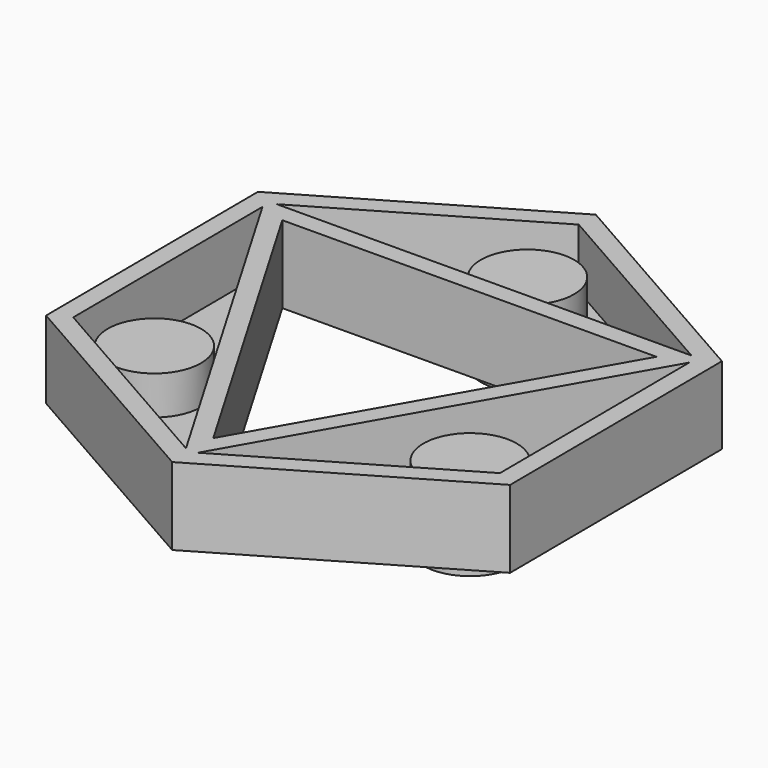
from build123d import *

# Parameters (mm, degrees)
F1_DEPTH = 25
F2_T     = -6
F4_R     = 15.0616711188
F5_DEPTH = 12.5


with BuildPart() as f1:
    # F0 (on Top) → F1 (new body)
    with BuildSketch(Plane.XY):
        Polygon((74.3237713212, 43.4907621871), (-0.5022192234, 86.1116551627), (-74.8259905445, 42.6208929757), (-74.3237713212, -43.4907621871), (0.5022192234, -86.1116551627), (74.8259905445, -42.6208929757), align=None)
        Polygon((0.4048665783, -69.4193482725), (-60.3213524073, 34.3590493943), (59.916485829, 35.0602988782), align=None, mode=Mode.SUBTRACT)
    extrude(amount=F1_DEPTH)

    # F2
    f2_openings = [f1.faces().sort_by_distance(p)[0] for p in [
        (35.781524, 62.818673, 25),
    ]]
    offset(amount=F2_T, openings=f2_openings, kind=Kind.INTERSECTION)

    # F4 (on face) → F5 (join, symmetric)
    with BuildSketch(Plane.XY.offset(6)):
        with Locations((-0.461813338, 58.4901720285)):
            Circle(F4_R)
        with Locations((50.8848815174, -28.8451439318)):
            Circle(F4_R)
        with Locations((-50.4230681795, -29.6450280968)):
            Circle(F4_R)
    extrude(amount=F5_DEPTH, both=True)


with BuildPart() as f1b:
    # F0 (on Top) → F1, piece 2 (new body)
    with BuildSketch(Plane.XY):
        Polygon((29.9582429145, 17.5301494391), (-30.1606762036, 17.1795246971), (0.2024332891, -34.7096741362), align=None)
    extrude(amount=F1_DEPTH)


solid = f1.part
